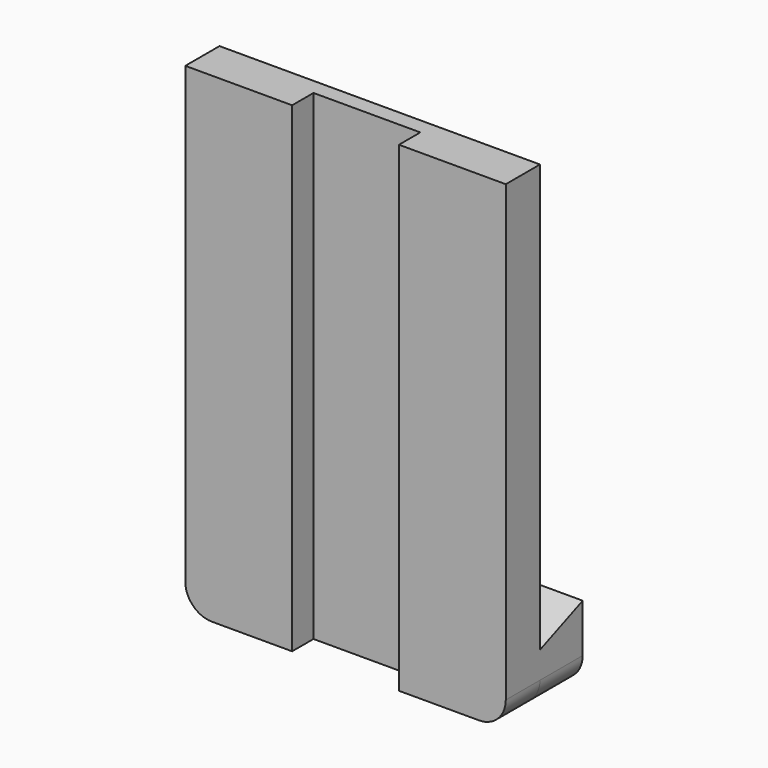
from build123d import *

# Parameters (mm, degrees)
F1_DEPTH = 90
F2_R     = 5
F4_DEPTH = 10
F6_DEPTH = 60.001


with BuildPart() as f1:
    # F0 (on Top) → F1 (new body)
    with BuildSketch(Plane.XY):
        Polygon((17.489978, -16.504586), (17.489978, -21.504586), (37.489978, -21.504586), (37.489978, -13.504586), (-22.510022, -13.504586), (-22.510022, -21.504586), (-2.510022, -21.504586), (-2.510022, -16.504586), align=None)
    extrude(amount=F1_DEPTH)

    # F2
    f2_edges = [f1.edges().sort_by_distance(p)[0] for p in [
        (-22.510022, -17.504586, 0),
        (37.489978, -17.504586, 0),
    ]]
    fillet(f2_edges, radius=F2_R)

    # F3 (on face) → F4 (join)
    with BuildSketch(Plane(origin=(0, -13.504586, 0), x_dir=(-1, 0, 0), z_dir=(0, 1, 0))):
        with BuildLine():
            Line((22.510022, 5), (22.510022, 20))
            Line((22.510022, 20), (-37.489978, 20))
            Line((-37.489978, 20), (-37.489978, 5))
            ThreePointArc((-37.489978, 5), (-36.025512, 1.464466), (-32.489978, 0))
            Line((-32.489978, 0), (17.510022, 0))
            ThreePointArc((17.510022, 0), (21.045556, 1.464466), (22.510022, 5))
        make_face()
    extrude(amount=F4_DEPTH)

    # F5 (on face) → F6 (cut, through all)
    with BuildSketch(Plane.YZ.offset(37.489978)):
        Polygon((-13.504586, 10), (-3.504586, 14.040262), (-3.504586, 20), (-13.504586, 20), align=None)
    extrude(amount=-F6_DEPTH, mode=Mode.SUBTRACT)


solid = f1.part
